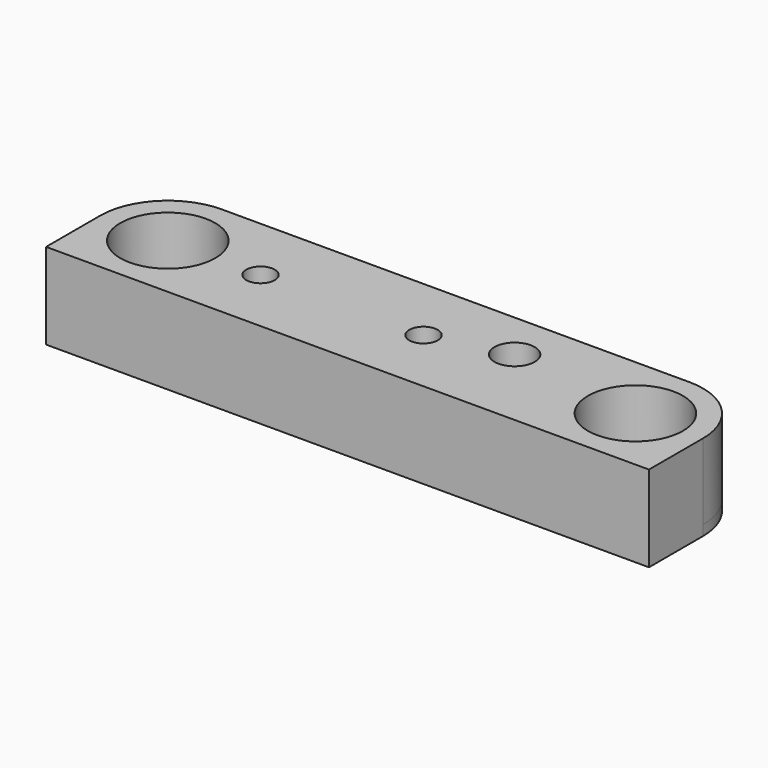
from build123d import *

# Parameters (mm, degrees)
F0_W     = 95.1874652
F0_H     = 21.3499954
F0_R     = 6.7062477
F1_DEPTH = 1.5875
F2_R     = 10.6749977
F4_DEPTH = 12
F5_R     = 2.2479
F5_R_2   = 3.175
F6_DEPTH = 13.5875
F7_R     = 3.96875
F8_DEPTH = 7.2375014


with BuildPart() as f1:
    # F0 (on Top) → F1 (new body)
    with BuildSketch(Plane.XY):
        with Locations((47.5937326, -10.6749977)):
            Rectangle(F0_W, F0_H)
        with Locations((10.6749977, -10.6749977)):
            Circle(F0_R, mode=Mode.SUBTRACT)
        with Locations((84.5124675, -10.6749977)):
            Circle(F0_R, mode=Mode.SUBTRACT)
    extrude(amount=F1_DEPTH)

    # F2
    f2_edges = [f1.edges().sort_by_distance(p)[0] for p in [
        (0, 0, 0.79375),
        (95.187465, 0, 0.79375),
    ]]
    fillet(f2_edges, radius=F2_R)

    # F3 (on face) → F4 (join)
    with BuildSketch(Plane.XY.offset(1.5875)):
        with BuildLine():
            Line((4.5476495872, -14.9999954), (0, -14.9999954))
            Line((0, -14.9999954), (0, -21.3499954))
            Line((0, -21.3499954), (95.1874652, -21.3499954))
            Line((95.1874652, -21.3499954), (95.1874652, -14.9999954))
            Line((95.1874652, -14.9999954), (90.6398156128, -14.9999954))
            ThreePointArc((90.6398156128, -14.9999954), (84.5124675, -18.1749977), (78.3851193872, -14.9999954))
            Line((78.3851193872, -14.9999954), (16.8023458128, -14.9999954))
            ThreePointArc((16.8023458128, -14.9999954), (10.6749977, -18.1749977), (4.5476495872, -14.9999954))
        make_face()
        with BuildLine():
            Line((0, -10.6749977), (0, -14.9999954))
            Line((0, -14.9999954), (4.5476495872, -14.9999954))
            ThreePointArc((4.5476495872, -14.9999954), (8.4061996532, -3.5263925617), (18.1749977, -10.6749977))
            ThreePointArc((18.1749977, -10.6749977), (17.8236028383, -12.9437957468), (16.8023458128, -14.9999954))
            Line((16.8023458128, -14.9999954), (78.3851193872, -14.9999954))
            ThreePointArc((78.3851193872, -14.9999954), (82.2436694532, -3.5263925617), (92.0124675, -10.6749977))
            ThreePointArc((92.0124675, -10.6749977), (91.6610726383, -12.9437957468), (90.6398156128, -14.9999954))
            Line((90.6398156128, -14.9999954), (95.1874652, -14.9999954))
            Line((95.1874652, -14.9999954), (95.1874652, -10.6749977))
            ThreePointArc((95.1874652, -10.6749977), (92.0608307628, -3.1266344372), (84.5124675, 0))
            Line((84.5124675, 0), (10.6749977, 0))
            ThreePointArc((10.6749977, 0), (3.1266344372, -3.1266344372), (0, -10.6749977))
        make_face()
    extrude(amount=F4_DEPTH)

    # F5 (on face) → F6 (cut, through all)
    with BuildSketch(Plane.XY.offset(13.5875)):
        with Locations((51.0505421177, -10.6749977)):
            Circle(F5_R)
        with Locations((63.0499501, -7.6956285)):
            Circle(F5_R_2)
        with Locations((25.3187477, -10.6749977)):
            Circle(F5_R)
    extrude(amount=-F6_DEPTH, mode=Mode.SUBTRACT)

    # F7 (on face) → F8 (cut)
    with BuildSketch(Plane(origin=(0, 0, 0), x_dir=(1, 0, 0), z_dir=(0, 0, -1))):
        with Locations((51.0505421177, 10.6749977)):
            Circle(F7_R)
        with Locations((25.3187477, 10.6749977)):
            Circle(F7_R)
    extrude(amount=-F8_DEPTH, mode=Mode.SUBTRACT)


solid = f1.part
